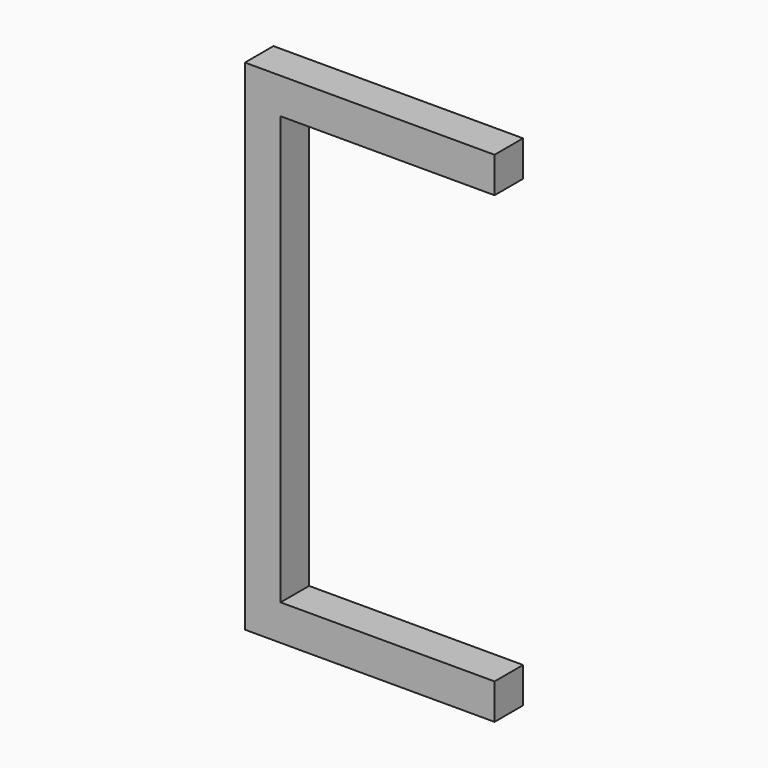
from build123d import *

# Parameters (mm, degrees)
BOX218_W     = 12
BOX218_H     = 2
BOX218_DEPTH = 2
BOX219_W     = 12
BOX219_H     = 2
BOX219_DEPTH = 2
BOX214_W     = 2
BOX214_H     = 2
BOX214_DEPTH = 28


with BuildPart() as cube207:
    # Box218 → Box218 (new body)
    with BuildSketch(Plane(origin=(10.5, 53, -8.5), x_dir=(1, 0, 0), z_dir=(0, 0, 1))):
        with Locations((6, 1)):
            Rectangle(BOX218_W, BOX218_H)
    extrude(amount=BOX218_DEPTH)


with BuildPart() as cube208:
    # Box219 → Box219 (new body)
    with BuildSketch(Plane(origin=(10.5, 53, -34.5), x_dir=(1, 0, 0), z_dir=(0, 0, 1))):
        with Locations((6, 1)):
            Rectangle(BOX219_W, BOX219_H)
    extrude(amount=BOX219_DEPTH)


with BuildPart() as fusion069:
    # Box214 → Box214 (new body)
    with BuildSketch(Plane(origin=(8.5, 53, -34.5), x_dir=(1, 0, 0), z_dir=(0, 0, 1))):
        with Locations((1, 1)):
            Rectangle(BOX214_W, BOX214_H)
    extrude(amount=BOX214_DEPTH)

    # Fusion069: union Cube207, Cube208
    add(cube207.part)
    add(cube208.part)


solid = fusion069.part
